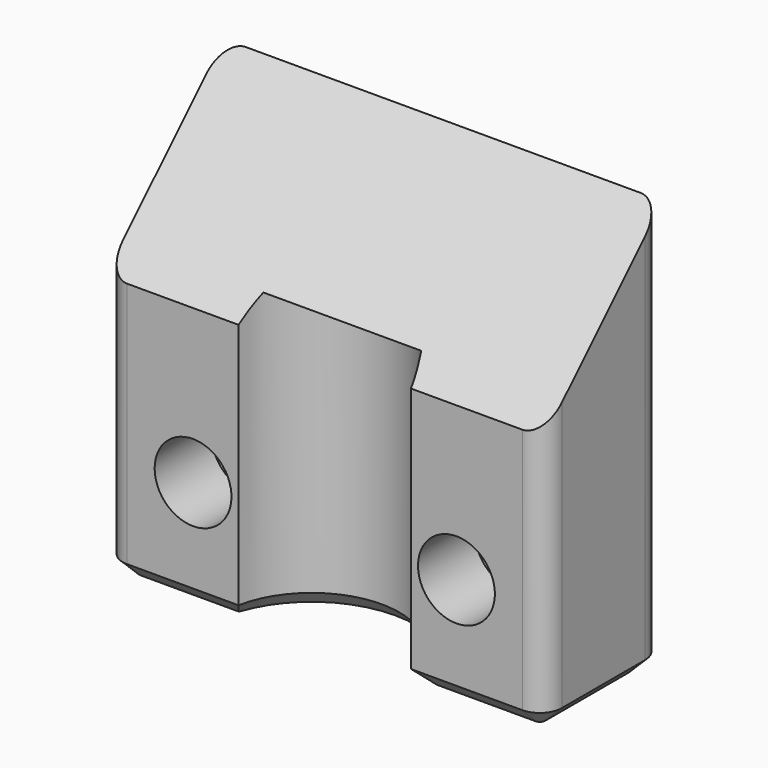
from build123d import *

# Parameters (mm, degrees)
PAD141_DEPTH         = 19
POCKET481_DEPTH      = 10.001
POCKET481_DEPTH_BACK = 10.001
SKETCH672_R          = 4
POCKET482_DEPTH      = 13
SKETCH673_R          = 1.75
POCKET483_DEPTH      = 7.501
SKETCH674_R          = 3
POCKET484_DEPTH      = 3.501
CHAMFER036_SIZE      = 0.75


with BuildPart() as z_rod_clamp_left:
    # Sketch670 → Pad141 (new body)
    with BuildSketch(Plane.XY):
        with BuildLine():
            Line((-9, 0.75), (9, 0.75))
            ThreePointArc((9, 0.75), (9.707107, 1.042893), (10, 1.75))
            Line((10, 1.75), (10, 6.5))
            ThreePointArc((10, 6.5), (9.707107, 7.207107), (9, 7.5))
            Line((9, 7.5), (-9, 7.5))
            ThreePointArc((-9, 7.5), (-9.707107, 7.207107), (-10, 6.5))
            Line((-10, 6.5), (-10, 1.75))
            ThreePointArc((-10, 1.75), (-9.707107, 1.042893), (-9, 0.75))
        make_face()
    extrude(amount=PAD141_DEPTH)

    # Sketch671 → Pocket481 (cut, two sides)
    with BuildSketch(Plane.YZ) as pocket481_sk:
        Polygon((0.75, 12), (7.75, 19), (0.75, 19), align=None)
    extrude(amount=-POCKET481_DEPTH, mode=Mode.SUBTRACT)
    extrude(pocket481_sk.sketch, amount=POCKET481_DEPTH_BACK, mode=Mode.SUBTRACT)

    # Sketch672 → Pocket482 (cut)
    with BuildSketch(Plane.XY):
        Circle(SKETCH672_R)
    extrude(amount=POCKET482_DEPTH, mode=Mode.SUBTRACT)

    # Sketch673 → Pocket483 (cut, through all)
    with BuildSketch(Plane.XZ):
        with Locations((6, 5)):
            Circle(SKETCH673_R)
        with Locations((-6, 5)):
            Circle(SKETCH673_R)
    extrude(amount=-POCKET483_DEPTH, mode=Mode.SUBTRACT)

    # Sketch674 → Pocket484 (cut, through all)
    with BuildSketch(Plane.XZ.offset(-4)):
        with Locations((6, 5)):
            Circle(SKETCH674_R)
        with Locations((-6, 5)):
            Circle(SKETCH674_R)
    extrude(amount=-POCKET484_DEPTH, mode=Mode.SUBTRACT)

    # Chamfer036
    chamfer036_edges = [z_rod_clamp_left.edges().sort_by_distance(p)[0] for p in [
        (-9.707107, 1.042893, 0),
        (-10, 4.125, 0),
        (-9.707107, 7.207107, 0),
        (0, 7.5, 0),
        (9.707107, 7.207107, 0),
        (10, 4.125, 0),
        (9.707107, 1.042893, 0),
        (6.464529, 0.75, 0),
        (0, 4, 0),
        (-6.464529, 0.75, 0),
    ]]
    chamfer(chamfer036_edges, length=CHAMFER036_SIZE)


with BuildPart() as z_rod_clamp_left_1:
    # Body208 placement: moved
    add(z_rod_clamp_left.part.moved(Location((-160, -90, -30))))


with BuildPart() as part_mirroring098:
    # Part__Mirroring098: instance of z-rod-clamp-left
    add(z_rod_clamp_left_1.part.mirror(Plane(origin=(-2e-06, -85.875, -20.625002), x_dir=(0, -1, 0), z_dir=(1, 0, 0))))


solid = part_mirroring098.part
